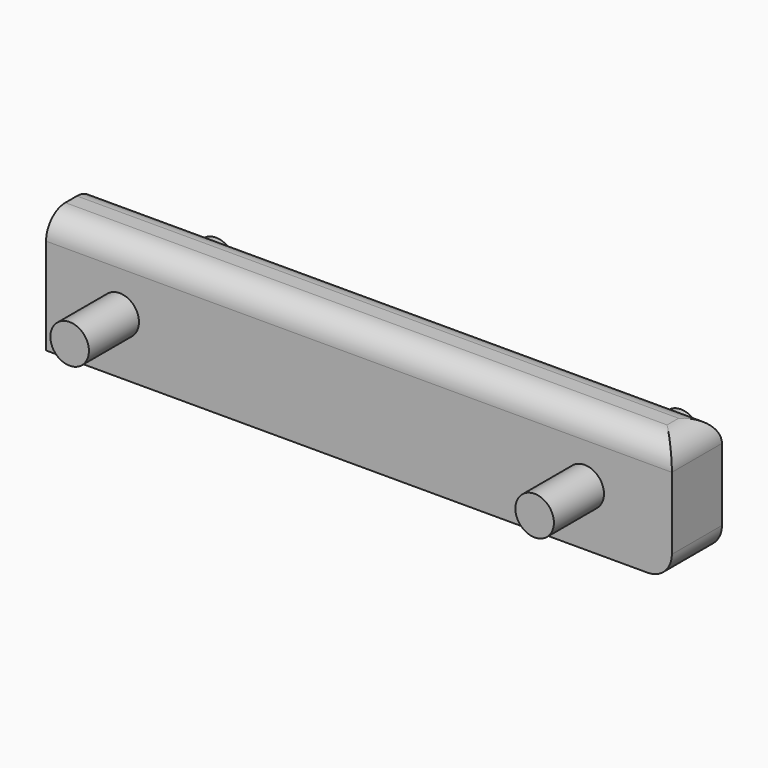
from build123d import *

# Parameters (mm, degrees)
F0_W          = 130
F0_H          = 13
F1_DEPTH      = 25
F2_R          = 4
F3_DEPTH      = 25
F3_FACE_R     = 4
F4_DEPTH      = 99.4
F5_R          = 5
F6_R          = 4
F7_DEPTH      = 13
F7_DEPTH_BACK = 25


with BuildPart() as f1:
    # F0 (on Top) → F1 (new body)
    with BuildSketch(Plane.XY):
        with Locations((-7.093077, -51.712683)):
            Rectangle(F0_W, F0_H)
    extrude(amount=F1_DEPTH)

    # F2 (on face) → F3 (join)
    with BuildSketch(Plane(origin=(0, -45.212683, 0), x_dir=(-1, 0, 0), z_dir=(0, 1, 0))):
        with Locations((-39.799914, 11.472573)):
            Circle(F2_R)
        with Locations((56.796312, 11.472573)):
            Circle(F2_R)
    extrude(amount=F3_DEPTH)

    # F3_face (on face) → F4 (cut)
    with BuildSketch(Plane(origin=(39.799914, -20.212683, 11.472573), x_dir=(-1, 0, 0), z_dir=(0, 1, 0))):
        Circle(F3_FACE_R)
        with Locations((96.596226, 0)):
            Circle(F3_FACE_R)
    extrude(amount=-F4_DEPTH, mode=Mode.SUBTRACT)

    # F5
    f5_edges = [f1.edges().sort_by_distance(p)[0] for p in [
        (57.906923, -51.712683, 25),
        (57.906923, -51.712683, 0),
        (-7.093077, -58.212683, 25),
        (-7.093077, -45.212683, 25),
    ]]
    fillet(f5_edges, radius=F5_R)

    # F6 (on face) → F7 (join, two sides)
    with BuildSketch(Plane.XZ.offset(58.212683)) as f7_sk:
        with Locations((-56.796312, 11.472573)):
            Circle(F6_R)
        with Locations((39.799914, 11.472573)):
            Circle(F6_R)
    extrude(amount=F7_DEPTH)
    extrude(f7_sk.sketch, amount=-F7_DEPTH_BACK)


solid = f1.part
